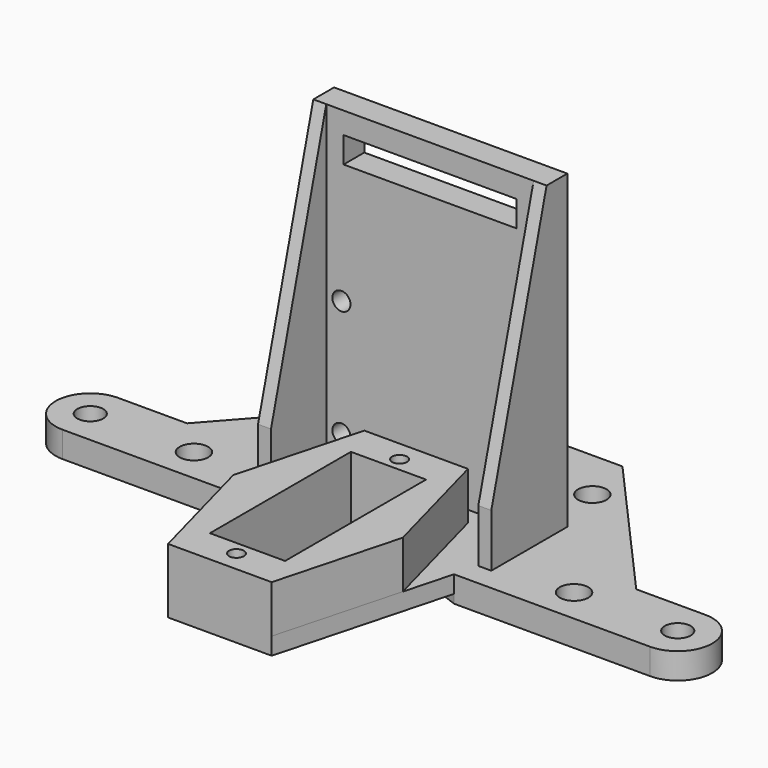
from build123d import *

# Parameters (mm, degrees)
SKETCH_R        = 0.86
SKETCH_R_2      = 1.5
SKETCH_R_3      = 1.65
SKETCH_W        = 8.7
SKETCH_H        = 20.4
PAD_DEPTH       = 3
SKETCH001_R     = 0.86
SKETCH001_W     = 8.7
SKETCH001_H     = 20.4
PAD001_DEPTH    = 5.5
PAD002_DEPTH    = 36
CHAMFER_1_ANGLE = 15
CHAMFER_1_SIZE  = 29.85
CHAMFER_2_ANGLE = 15
CHAMFER_2_SIZE  = 29.85
SKETCH003_R     = 1.05
SKETCH003_W     = 20
SKETCH003_H     = 3
POCKET_DEPTH    = 3
POCKET001_DEPTH = 1


with BuildPart() as part:
    # Sketch → Pad (new body)
    with BuildSketch(Plane.XY):
        with BuildLine():
            Line((-11.3, -4), (-26, -4))
            Line((-26, -4), (-34, -4))
            ThreePointArc((-34, 4), (-38, 0), (-34, -4))
            Line((-34, 4), (-26, 4))
            Line((-26, 4), (-10, 22))
            Line((-10, 22), (10, 22))
            Line((26, 4), (10, 22))
            Line((26, 4), (34, 4))
            ThreePointArc((34, -4), (38, 0), (34, 4))
            Line((26, -4), (34, -4))
            Line((11.3, -4), (26, -4))
            Line((6, -23.75), (11.3, -4))
            Line((-6, -23.75), (6, -23.75))
            Line((-11.3, -4), (-6, -23.75))
        make_face()
        with Locations((0, 2.25)):
            Circle(SKETCH_R, mode=Mode.SUBTRACT)
        with Locations((0, -21.35)):
            Circle(SKETCH_R, mode=Mode.SUBTRACT)
        with Locations((-34, 0)):
            Circle(SKETCH_R_2, mode=Mode.SUBTRACT)
        with Locations((34, 0)):
            Circle(SKETCH_R_2, mode=Mode.SUBTRACT)
        with Locations((-22, 0)):
            Circle(SKETCH_R_3, mode=Mode.SUBTRACT)
        with Locations((-11.319468, 16)):
            Circle(SKETCH_R_3, mode=Mode.SUBTRACT)
        with Locations((11.319468, 16)):
            Circle(SKETCH_R_3, mode=Mode.SUBTRACT)
        with Locations((22, 0)):
            Circle(SKETCH_R_3, mode=Mode.SUBTRACT)
        with Locations((0, -9.55)):
            Rectangle(SKETCH_W, SKETCH_H, mode=Mode.SUBTRACT)
    extrude(amount=PAD_DEPTH)

    # Sketch001 (on Face24 of Pad) → Pad001 (join)
    with BuildSketch(Plane.XY.offset(3)):
        Polygon((-6, -23.75), (6, -23.75), (9.810633, -9.55), (6, 4.65), (-6, 4.65), (-9.810633, -9.55), align=None)
        with Locations((0, -21.35)):
            Circle(SKETCH001_R, mode=Mode.SUBTRACT)
        with Locations((0, 2.25)):
            Circle(SKETCH001_R, mode=Mode.SUBTRACT)
        with Locations((0, -9.55)):
            Rectangle(SKETCH001_W, SKETCH001_H, mode=Mode.SUBTRACT)
    extrude(amount=PAD001_DEPTH)

    # Sketch002 (on Face5 of Pad001) → Pad002 (join)
    with BuildSketch(Plane.XY.offset(3)):
        Polygon((-12, 6.65), (-12, -1.35), (-13.5, -1.35), (-13.5, 9.65), (13.5, 9.65), (13.5, -1.35), (12, -1.35), (12, 6.65), align=None)
    extrude(amount=PAD002_DEPTH)

    # Chamfer 1
    chamfer_1_edges = [part.edges().sort_by_distance(p)[0] for p in [
        (-12.75, -1.35, 39),
    ]]
    chamfer_1_side = part.faces().sort_by_distance((-12.75, -1.35, 21))[0]
    chamfer(chamfer_1_edges, length=CHAMFER_1_SIZE, angle=CHAMFER_1_ANGLE, reference=chamfer_1_side)

    # Chamfer 2
    chamfer_2_edges = [part.edges().sort_by_distance(p)[0] for p in [
        (12.75, -1.35, 39),
    ]]
    chamfer_2_side = part.faces().sort_by_distance((12.75, -1.35, 21))[0]
    chamfer(chamfer_2_edges, length=CHAMFER_2_SIZE, angle=CHAMFER_2_ANGLE, reference=chamfer_2_side)

    # Sketch003 (on Face26 of Chamfer) → Pocket (cut)
    with BuildSketch(Plane(origin=(0, 9.65, 0), x_dir=(-1, 0, 0), z_dir=(0, 1, 0))):
        with Locations((-10.25, 6)):
            Circle(SKETCH003_R)
        with Locations((-10.25, 19.5)):
            Circle(SKETCH003_R)
        with Locations((10.25, 6)):
            Circle(SKETCH003_R)
        with Locations((10.25, 19.5)):
            Circle(SKETCH003_R)
        with Locations((0, 35)):
            Rectangle(SKETCH003_W, SKETCH003_H)
    extrude(amount=-POCKET_DEPTH, mode=Mode.SUBTRACT)

    # Sketch004 (on Face41 of Pocket) → Pocket001 (cut)
    with BuildSketch(Plane(origin=(0, 0, 0), x_dir=(1, 0, 0), z_dir=(0, 0, -1))):
        Polygon((-8, 2.75), (-11.3, 4), (-6, 23.75), (6, 23.75), (11.3, 4), (8, 2.75), (6, -4.65), (-6, -4.65), align=None)
    extrude(amount=-POCKET001_DEPTH, mode=Mode.SUBTRACT)


solid = part.part
